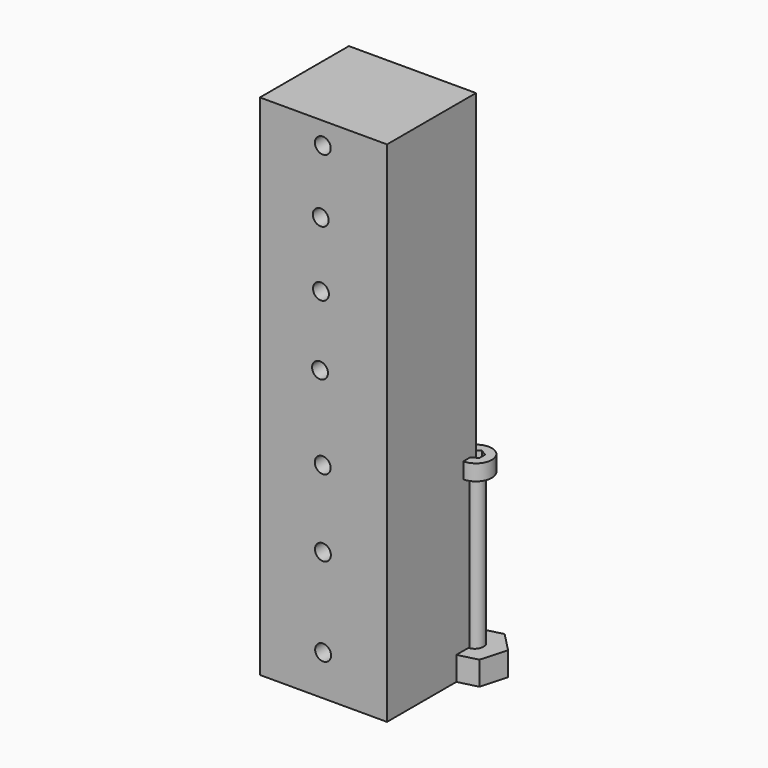
from build123d import *

# Parameters (mm, degrees)
F1_DEPTH  = 4.7625
F2_R      = 1.5875
F3_DEPTH  = 25.4
F4_R      = 1.5875
F5_DEPTH  = 34.925
F6_R      = 3.175
F7_DEPTH  = 3.175
F9_DEPTH  = 3.175
F10_W     = 25.4
F10_H     = 22.225
F11_DEPTH = 101.6
F12_R     = 1.5875
F13_DEPTH = 25.4


with BuildPart() as f1:
    # F0 (on Top) → F1 (new body)
    with BuildSketch(Plane.XY):
        Polygon((-5.330464, -1.352047), (-1.494325, -5.292341), (3.836139, -3.940293), (5.330464, 1.352047), (1.494325, 5.292341), (-3.836139, 3.940293), align=None)
    extrude(amount=F1_DEPTH)

    # F2 (on face) → F3 (cut)
    with BuildSketch(Plane.XY.offset(4.7625)):
        with Locations((-0.014651, -0.275343)):
            Circle(F2_R)
    extrude(amount=-F3_DEPTH, mode=Mode.SUBTRACT)


with BuildPart() as f5:
    # F4 (on Top) → F5 (new body)
    with BuildSketch(Plane.XY):
        Circle(F4_R)
    extrude(amount=F5_DEPTH)

    # F6 (on face) → F7 (join)
    with BuildSketch(Plane.XY.offset(34.925)):
        Circle(F6_R)
    extrude(amount=F7_DEPTH)

    # F8 (on face) → F9 (cut)
    with BuildSketch(Plane.XY.offset(38.1)):
        Polygon((1.258599, -0.726652), (1.258599, 0.726652), (0, 1.453305), (-1.258599, 0.726652), (-1.258599, -0.726652), (0, -1.453305), align=None)
    extrude(amount=-F9_DEPTH, mode=Mode.SUBTRACT)


with BuildPart() as f11:
    # F10 (on Top) → F11 (new body)
    with BuildSketch(Plane.XY):
        with Locations((-12.7, -11.1125)):
            Rectangle(F10_W, F10_H)
    extrude(amount=F11_DEPTH)

    # F12 (on face) → F13 (cut)
    with BuildSketch(Plane.XZ.offset(22.225)):
        with Locations((-12.771082, 8.055969)):
            Circle(F12_R)
        with Locations((-12.811904, 25.698902)):
            Circle(F12_R)
        with Locations((-12.852621, 41.00094)):
            Circle(F12_R)
        with Locations((-13.388035, 57.51)):
            Circle(F12_R)
        with Locations((-13.204748, 71.443364)):
            Circle(F12_R)
        with Locations((-13.250411, 84.447086)):
            Circle(F12_R)
        with Locations((-12.830836, 97.220197)):
            Circle(F12_R)
    extrude(amount=-F13_DEPTH, mode=Mode.SUBTRACT)


solid = Compound([f1.part, f5.part, f11.part])
